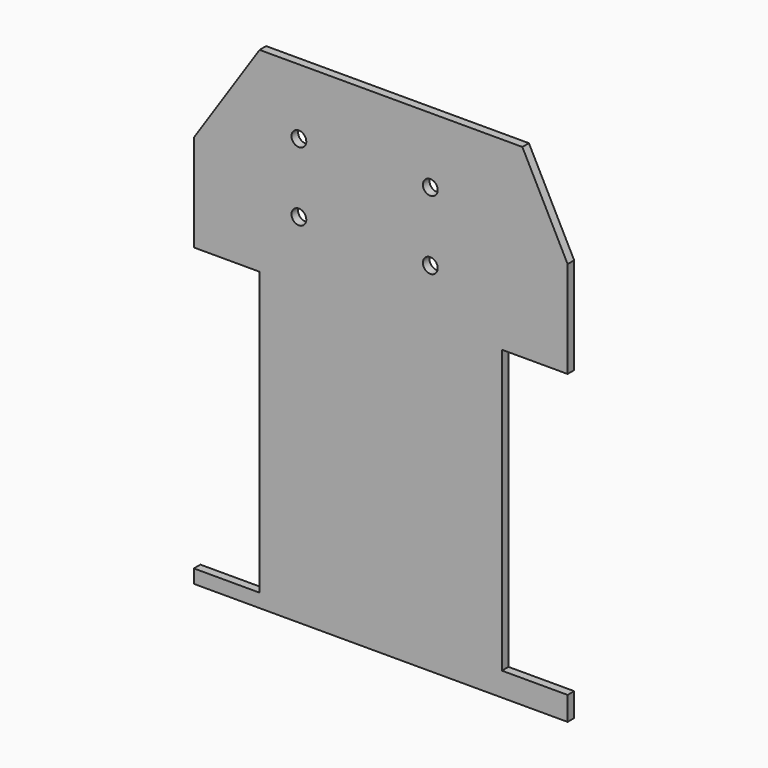
from build123d import *

# Parameters (mm, degrees)
F0_R     = 2.8575
F1_DEPTH = 3.175


with BuildPart() as f1:
    # F0 (on Front) → F1 (new body)
    with BuildSketch(Plane.XZ):
        Polygon((-33.32341, 75.50693), (-134.92341, 75.50693), (-160.32341, 37.40693), (-160.32341, 0), (-134.92341, 0), (-134.92341, -109.22), (-160.32341, -109.22), (-160.32341, -114.478326), (-15.834962, -114.478326), (-15.834962, -105.289749), (-41.234962, -105.289749), (-41.234962, 3.930251), (-15.834962, 3.930251), (-15.834962, 41.337186), align=None)
        with Locations((-119.708262, 23.589447)):
            Circle(F0_R, mode=Mode.SUBTRACT)
        with Locations((-119.708262, 50.18051)):
            Circle(F0_R, mode=Mode.SUBTRACT)
        with Locations((-68.908262, 23.589447)):
            Circle(F0_R, mode=Mode.SUBTRACT)
        with Locations((-68.908262, 50.18051)):
            Circle(F0_R, mode=Mode.SUBTRACT)
    extrude(amount=F1_DEPTH)


solid = f1.part
